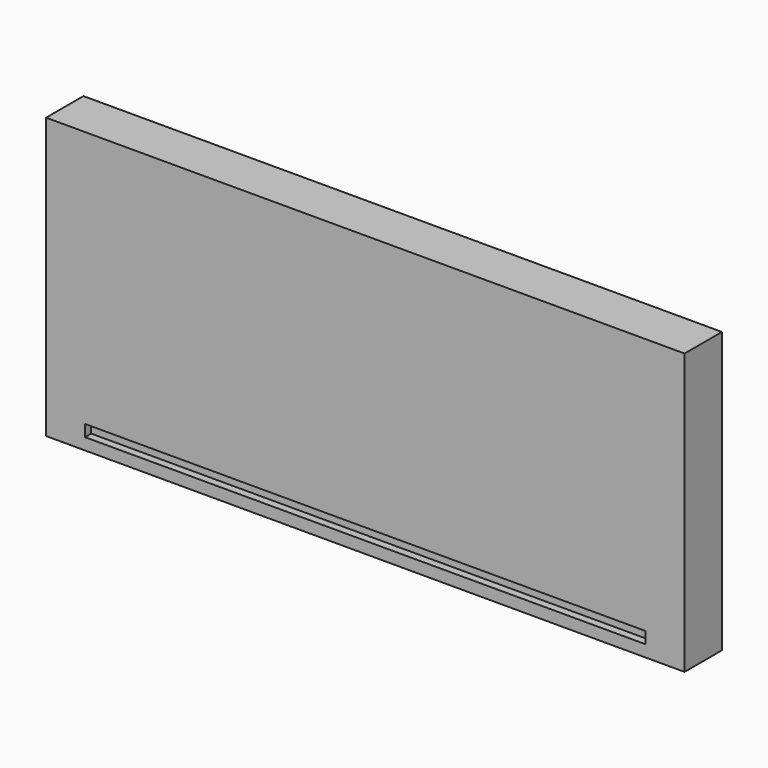
from build123d import *

# Parameters (mm, degrees)
F0_W     = 260.35
F0_H     = 114.3
F1_DEPTH = 19.05
F2_W     = 260.35
F2_H     = 4.7625
F3_DEPTH = 3.175
F4_W     = 15.875
F4_H     = 4.7625
F5_DEPTH = 3.175


with BuildPart() as f1:
    # F0 (on Front) → F1 (new body)
    with BuildSketch(Plane.XZ):
        Rectangle(F0_W, F0_H)
    extrude(amount=F1_DEPTH)

    # F2 (on face) → F3 (cut)
    with BuildSketch(Plane.XZ.offset(19.05)):
        with Locations((0, -50.00625)):
            Rectangle(F2_W, F2_H)
    extrude(amount=-F3_DEPTH, mode=Mode.SUBTRACT)

    # F4 (on face) → F5 (join)
    with BuildSketch(Plane.XZ.offset(15.875)):
        with Locations((122.2375, -50.00625)):
            Rectangle(F4_W, F4_H)
        with Locations((-122.2375, -50.00625)):
            Rectangle(F4_W, F4_H)
    extrude(amount=F5_DEPTH)


solid = f1.part
